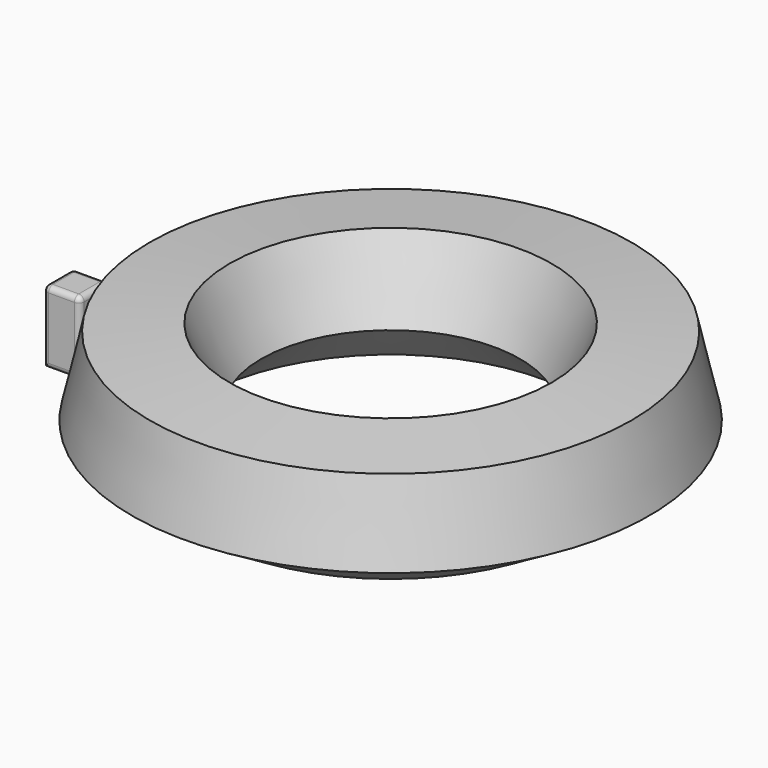
from build123d import *

# Parameters (mm, degrees)
F1_DEPTH = 38.1
F2_R     = 5.518892


with BuildPart() as f1:
    # F0 (on Front) → F1 (new body)
    with BuildSketch(Plane.XZ):
        Polygon((-37.592728, 38.571715), (-37.592728, 35.438985), (-37.592728, -36.222164), (55.214331, -36.222164), (0, -10.76875), (0, 38.571715), align=None)
    extrude(amount=F1_DEPTH)

    # F2
    f2_edges = [f1.edges().sort_by_distance(p)[0] for p in [
        (-37.592728, -19.05, 38.571715),
        (0, -19.05, -10.76875),
        (0, -38.1, 13.901483),
        (-18.796364, -38.1, 38.571715),
        (-37.592728, -38.1, 1.174776),
        (8.810801, -38.1, -36.222164),
        (27.607165, -38.1, -23.495457),
        (0, 0, 13.901483),
        (-18.796364, 0, 38.571715),
        (-37.592728, 0, 1.174776),
        (8.810801, 0, -36.222164),
        (27.607165, 0, -23.495457),
        (0, -19.05, 38.571715),
    ]]
    fillet(f2_edges, radius=F2_R)


with BuildPart() as f4:
    # F3 (on Front) → F4 (revolve)
    with BuildSketch(Plane.XZ):
        Polygon((23.163289, 6.846157), (94.064608, -35.392904), (156.146054, 18.985671), (123.613179, 94.832538), (41.42531, 87.329906), align=None)
    revolve(axis=Axis((289.476007, 0, 35.568487), (0, 0, -1)))


solid = Compound([f1.part, f4.part])
